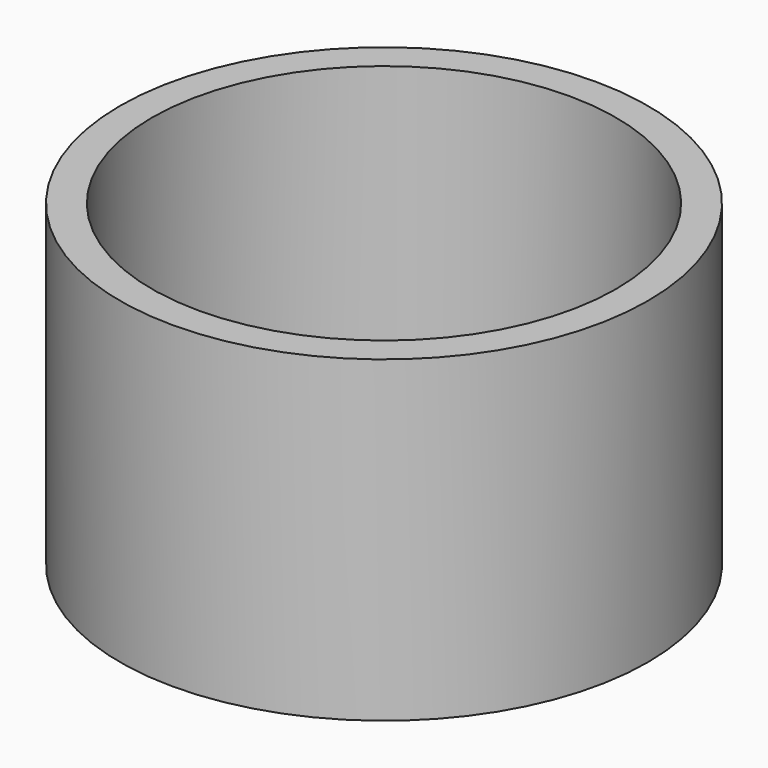
from build123d import *

# Parameters (mm, degrees)
F0_R        = 64.282036
F0_R_2      = 56.51558
F1_DEPTH    = 52.07
F2_R        = 63.645379
F2_R_2      = 59.669369
F3_DEPTH    = 28.194
F1_FACE_R   = 64.282036
F1_FACE_R_2 = 56.51558
F4_DEPTH    = 25.4


with BuildPart() as f1:
    # F0 (on Top) → F1 (new body)
    with BuildSketch(Plane.XY):
        Circle(F0_R)
        Circle(F0_R_2, mode=Mode.SUBTRACT)
    extrude(amount=F1_DEPTH)

    # F2 (on Top) → F3 (join)
    with BuildSketch(Plane.XY):
        Circle(F2_R)
        Circle(F2_R_2, mode=Mode.SUBTRACT)
    extrude(amount=F3_DEPTH)

    # F1_face (on face) → F4 (join)
    with BuildSketch(Plane(origin=(0, 0, 0), x_dir=(1, 0, 0), z_dir=(0, 0, -1))):
        Circle(F1_FACE_R)
        Circle(F1_FACE_R_2, mode=Mode.SUBTRACT)
    extrude(amount=F4_DEPTH)


solid = f1.part
